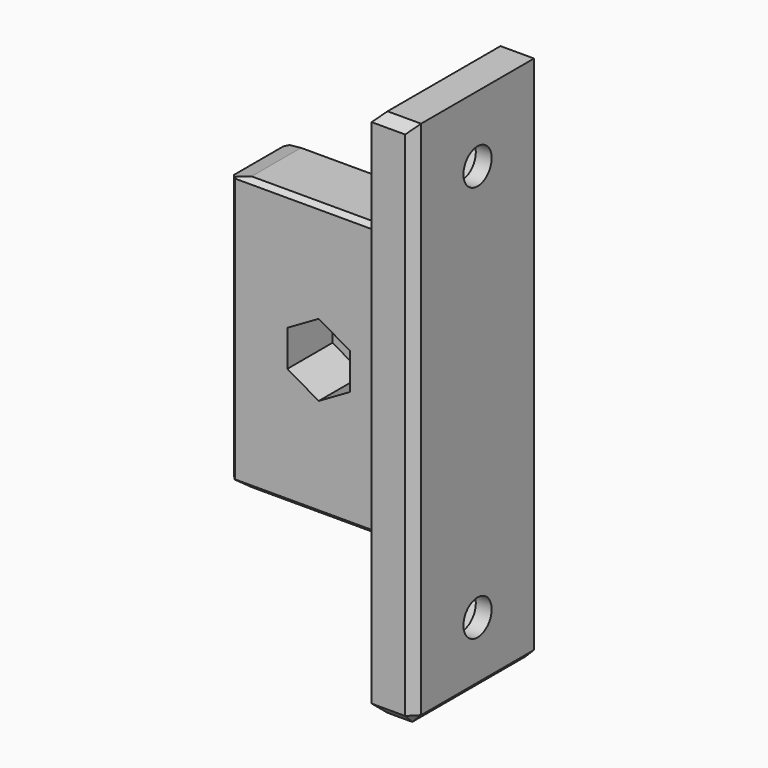
from build123d import *

# Parameters (mm, degrees)
F0_W      = 8
F0_H      = 31
F1_DEPTH  = 20
F3_DEPTH  = 6.4
F4_R      = 2
F5_DEPTH  = 1.601
F9_W      = 4.8
F9_H      = 18
F10_DEPTH = 30
F12_DEPTH = 3
F13_R     = 2
F14_DEPTH = 1.801
F15_SIZE  = 0.5
F16_SIZE2 = 2
F16_SIZE  = 0.5
F17_SIZE  = 1


with BuildPart() as f1:
    # F0 (on Right) → F1 (new body)
    with BuildSketch(Plane.YZ):
        with Locations((-4, 15.5)):
            Rectangle(F0_W, F0_H)
    extrude(amount=-F1_DEPTH)

    # F2 (on face) → F3 (cut)
    with BuildSketch(Plane.XZ.offset(8)):
        Polygon((-6.45, 13.4504065444), (-6.45, 17.5495934556), (-10, 19.5991869112), (-13.55, 17.5495934556), (-13.55, 13.4504065444), (-10, 11.4008130888), align=None)
    extrude(amount=-F3_DEPTH, mode=Mode.SUBTRACT)

    # F4 (on face) → F5 (cut, through all)
    with BuildSketch(Plane.XZ.offset(1.6)):
        with Locations((-10, 15.5)):
            Circle(F4_R)
    extrude(amount=-F5_DEPTH, mode=Mode.SUBTRACT)

    # F9 (on 3pt) → F10 (join, symmetric)
    with BuildSketch(Plane.XY.offset(15.5)):
        with Locations((2.4, -4)):
            Rectangle(F9_W, F9_H)
    extrude(amount=F10_DEPTH, both=True)

    # F11 (on face) → F12 (cut)
    with BuildSketch(Plane(origin=(0, 0, 0), x_dir=(0, -1, 0), z_dir=(-1, 0, 0))):
        Polygon((6.0495934556, 41.55), (1.9504065444, 41.55), (-0.0991869112, 38), (1.9504065444, 34.45), (6.0495934556, 34.45), (8.0991869112, 38), align=None)
        Polygon((6.0495934556, -3.45), (1.9504065444, -3.45), (-0.0991869112, -7), (1.9504065444, -10.55), (6.0495934556, -10.55), (8.0991869112, -7), align=None)
    extrude(amount=-F12_DEPTH, mode=Mode.SUBTRACT)

    # F13 (on face) → F14 (cut, through all)
    with BuildSketch(Plane(origin=(3, 0, 0), x_dir=(0, -1, 0), z_dir=(-1, 0, 0))):
        with Locations((4, 38)):
            Circle(F13_R)
        with Locations((4, -7)):
            Circle(F13_R)
    extrude(amount=-F14_DEPTH, mode=Mode.SUBTRACT)

    # F15
    f15_edges = [f1.edges().sort_by_distance(p)[0] for p in [
        (-10, -8, 31),
        (-10, 0, 31),
        (-10, 0, 0),
        (-10, -8, 0),
        (-20, -8, 15.5),
        (-20, 0, 15.5),
    ]]
    chamfer(f15_edges, length=F15_SIZE)

    # F16
    f16_edges = [f1.edges().sort_by_distance(p)[0] for p in [
        (-20, -4, 31),
        (-20, -4, 0),
    ]]
    f16_side = f1.faces().sort_by_distance((-20, -4, 15.5))[0]
    chamfer(f16_edges, length=F16_SIZE, length2=F16_SIZE2, reference=f16_side)

    # F17
    f17_edges = [f1.edges().sort_by_distance(p)[0] for p in [
        (2.4, -13, 45.5),
        (2.4, 5, 45.5),
        (2.4, -13, -14.5),
        (2.4, 5, -14.5),
        (4.8, 5, 15.5),
        (4.8, -4, -14.5),
        (4.8, -13, 15.5),
        (0, -4, 45.5),
        (0, -4, -14.5),
    ]]
    chamfer(f17_edges, length=F17_SIZE)


solid = f1.part
